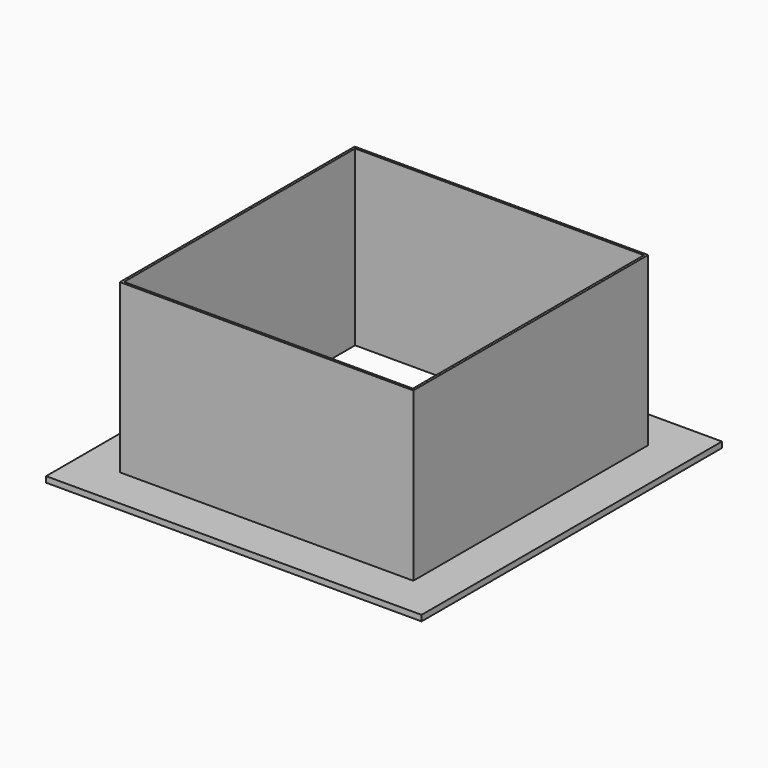
from build123d import *

# Parameters (mm, degrees)
F0_W     = 50.8
F0_H     = 50.8
F0_W_2   = 50
F0_H_2   = 50
F1_DEPTH = 30
F0_W_3   = 65
F0_H_3   = 65
F2_DEPTH = 1


with BuildPart() as f1:
    # F0 (on Top) → F1 (new body)
    with BuildSketch(Plane.XY):
        with Locations((-32.142855, 0)):
            Rectangle(F0_W, F0_H)
        with Locations((-32.142855, 0)):
            Rectangle(F0_W_2, F0_H_2, mode=Mode.SUBTRACT)
    extrude(amount=F1_DEPTH)


with BuildPart() as f2:
    # F0 (on Top) → F2 (new body)
    with BuildSketch(Plane.XY):
        with Locations((-32.142855, 0)):
            Rectangle(F0_W_3, F0_H_3)
        with Locations((-32.142855, 0)):
            Rectangle(F0_W, F0_H, mode=Mode.SUBTRACT)
    extrude(amount=F2_DEPTH)


solid = Compound([f1.part, f2.part])
